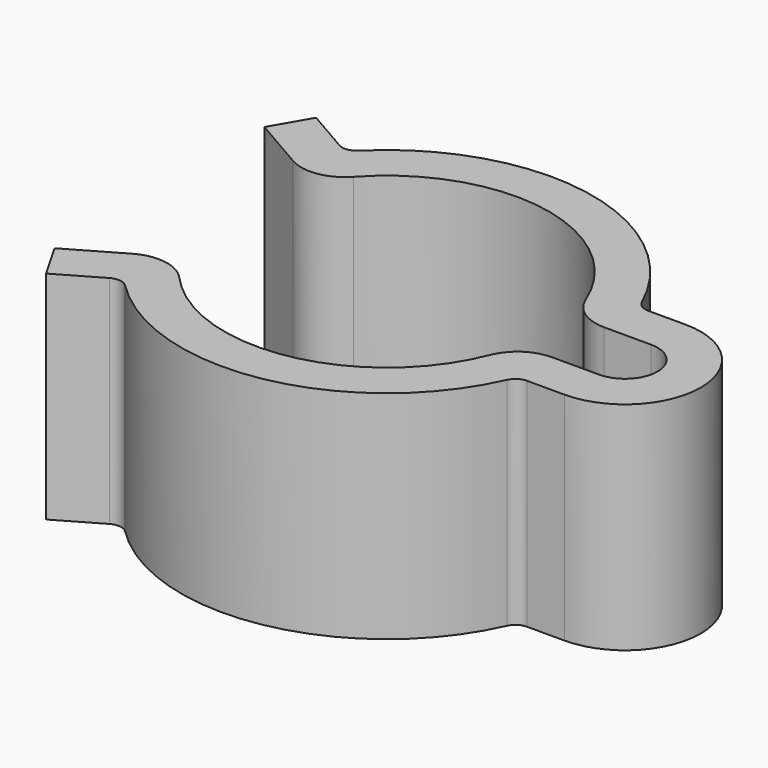
from build123d import *

# Parameters (mm, degrees)
F1_DEPTH = 1
F2_SCALE = 3
F3_R     = 0.2


with BuildPart() as f1:
    # F0 (on Top) → F1 (new body)
    with BuildSketch(Plane.XY):
        with BuildLine():
            ThreePointArc((-0.5560147872, 0.5033364247), (0.1336825888, 0.7379898139), (0.6972442789, 0.2763157895))
            ThreePointArc((0.6972442789, 0.2763157895), (0.7707857892, 0.1845659616), (0.8831760866, 0.15))
            Line((0.8831760866, 0.15), (1.1, 0.15))
            ThreePointArc((1.1, 0.15), (1.25, 0), (1.1, -0.15))
            Line((1.1, -0.15), (0.8831760866, -0.15))
            ThreePointArc((0.8831760866, -0.15), (0.7707857892, -0.1845659616), (0.6972442789, -0.2763157895))
            ThreePointArc((0.6972442789, -0.2763157895), (0.1336825888, -0.7379898139), (-0.5560147872, -0.5033364247))
            ThreePointArc((-0.5560147872, -0.5033364247), (-0.6732626201, -0.4399801523), (-0.8042853971, -0.4643543905))
            Line((-0.8042853971, -0.4643543905), (-1.05, -0.6062177826))
            Line((-1.05, -0.6062177826), (-1, -0.692820323))
            Line((-1, -0.692820323), (-0.7542853971, -0.5509569309))
            ThreePointArc((-0.7542853971, -0.5509569309), (-0.6887740086, -0.5387698118), (-0.6301500921, -0.570447948))
            ThreePointArc((-0.6301500921, -0.570447948), (0.1515069339, -0.8363884558), (0.7902101828, -0.3131578947))
            ThreePointArc((0.7902101828, -0.3131578947), (0.8269809379, -0.2672829808), (0.8831760866, -0.25))
            Line((0.8831760866, -0.25), (1.1, -0.25))
            ThreePointArc((1.1, -0.25), (1.35, 0), (1.1, 0.25))
            Line((1.1, 0.25), (0.8831760866, 0.25))
            ThreePointArc((0.8831760866, 0.25), (0.8269809379, 0.2672829808), (0.7902101828, 0.3131578947))
            ThreePointArc((0.7902101828, 0.3131578947), (0.1515069339, 0.8363884558), (-0.6301500921, 0.570447948))
            ThreePointArc((-0.6301500921, 0.570447948), (-0.6887740086, 0.5387698118), (-0.7542853971, 0.5509569309))
            Line((-0.7542853971, 0.5509569309), (-1, 0.692820323))
            Line((-1, 0.692820323), (-1.05, 0.6062177826))
            Line((-1.05, 0.6062177826), (-0.8042853971, 0.4643543905))
            ThreePointArc((-0.8042853971, 0.4643543905), (-0.6732626201, 0.4399801523), (-0.5560147872, 0.5033364247))
        make_face()
        with BuildLine():
            Line((-0.949999984, 0.7794228911), (-1, 0.692820323))
            Line((-1, 0.692820323), (-0.7542853971, 0.5509569309))
            ThreePointArc((-0.7542853971, 0.5509569309), (-0.6887740086, 0.5387698118), (-0.6301500921, 0.570447948))
            ThreePointArc((-0.6301500921, 0.570447948), (0.1515069339, 0.8363884558), (0.7902101828, 0.3131578947))
            ThreePointArc((0.7902101828, 0.3131578947), (0.8269809379, 0.2672829808), (0.8831760866, 0.25))
            Line((0.8831760866, 0.25), (1.1, 0.25))
            ThreePointArc((1.1, 0.25), (1.35, 0), (1.1, -0.25))
            Line((1.1, -0.25), (0.8831760866, -0.25))
            ThreePointArc((0.8831760866, -0.25), (0.8269809379, -0.2672829808), (0.7902101828, -0.3131578947))
            ThreePointArc((0.7902101828, -0.3131578947), (0.1515069339, -0.8363884558), (-0.6301500921, -0.570447948))
            ThreePointArc((-0.6301500921, -0.570447948), (-0.6887740086, -0.5387698118), (-0.7542853971, -0.5509569309))
            Line((-0.7542853971, -0.5509569309), (-1, -0.692820323))
            Line((-1, -0.692820323), (-0.949999984, -0.7794228911))
            Line((-0.949999984, -0.7794228911), (-0.7042854035, -0.6375595118))
            ThreePointArc((-0.7042854035, -0.6375595118), (0.1693312868, -0.9347871287), (0.8831761083, -0.3500000319))
            Line((0.8831761083, -0.3500000319), (1.1, -0.3500000319))
            ThreePointArc((1.1, -0.3500000319), (1.4500000319, 0), (1.1, 0.3500000319))
            Line((1.1, 0.3500000319), (0.8831761083, 0.3500000319))
            ThreePointArc((0.8831761083, 0.3500000319), (0.1693312868, 0.9347871287), (-0.7042854035, 0.6375595118))
            Line((-0.7042854035, 0.6375595118), (-0.949999984, 0.7794228911))
        make_face()
    extrude(amount=F1_DEPTH)


with BuildPart() as f1_1:
    # F2: moved
    add(f1.part.scale(F2_SCALE))

    # F3
    f3_edges = [f1_1.edges().sort_by_distance(p)[0] for p in [
        (-2.112856, 1.912679, 1.5),
        (-2.112856, -1.912679, 1.5),
        (2.649528, -1.05, 1.5),
        (2.649528, 1.05, 1.5),
    ]]
    fillet(f3_edges, radius=F3_R)


solid = f1_1.part
